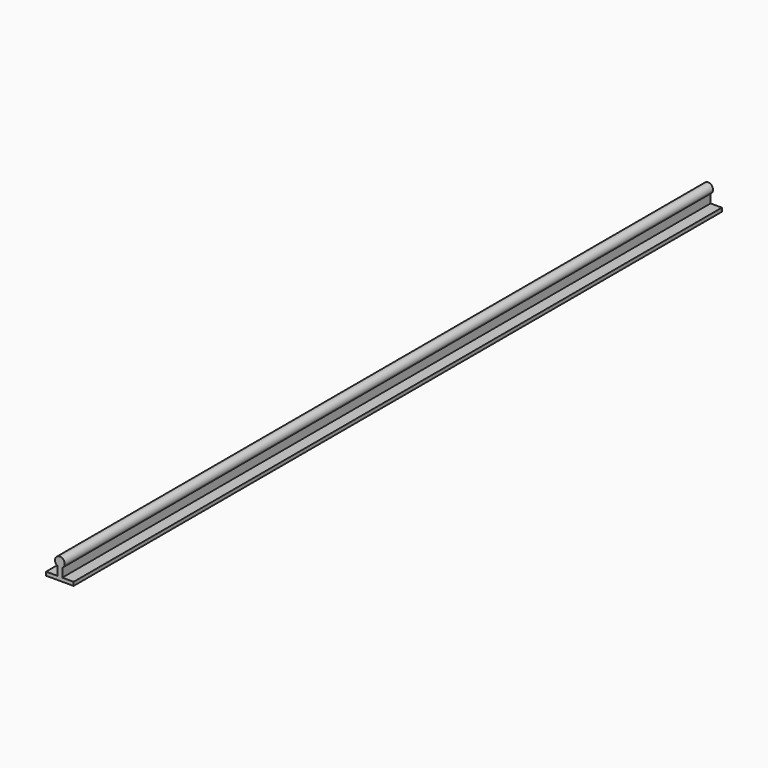
from build123d import *

# Parameters (mm, degrees)
F1_DEPTH = 500


with BuildPart() as f1:
    # F0 (on Front) → F1 (new body, symmetric)
    with BuildSketch(Plane.XZ):
        with BuildLine():
            ThreePointArc((3, -5.1961524227), (5.1961524227, -3), (6, 0))
            ThreePointArc((6, 0), (-3, 5.1961524227), (-3, -5.1961524227))
            ThreePointArc((-3, -5.1961524227), (0, -6), (3, -5.1961524227))
        make_face()
        Polygon((3, -15.96), (-3, -15.96), (-17, -15.96), (-17, -20.46), (0, -20.46), (17, -20.46), (17, -15.96), align=None)
        with BuildLine():
            ThreePointArc((3, -5.1961524227), (0, -6), (-3, -5.1961524227))
            Line((-3, -5.1961524227), (-3, -15.96))
            Line((-3, -15.96), (3, -15.96))
            Line((3, -15.96), (3, -5.1961524227))
        make_face()
    extrude(amount=F1_DEPTH, both=True)


solid = f1.part
